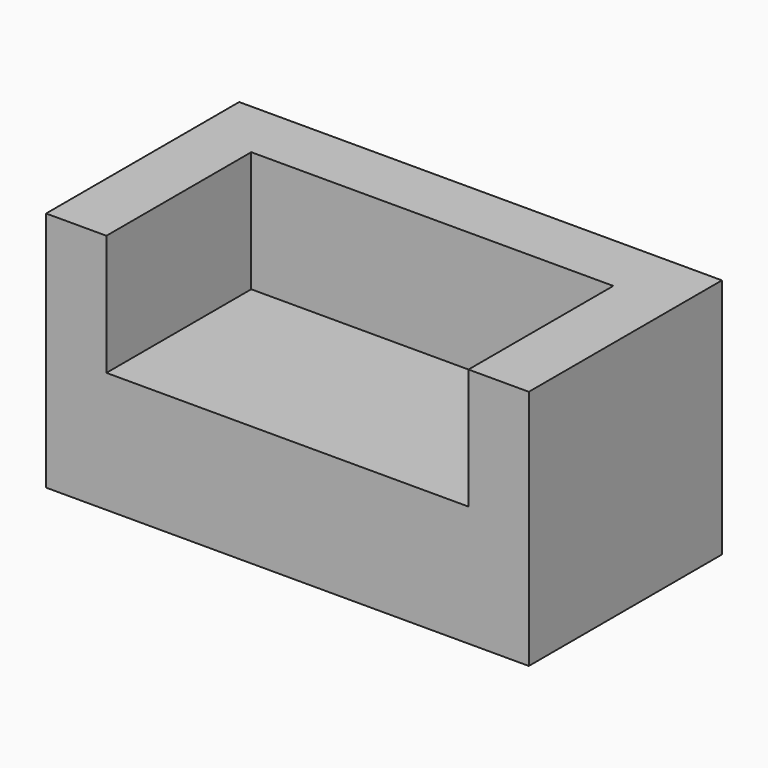
from build123d import *

# Parameters (mm, degrees)
F0_W     = 177.8
F0_H     = 101.6
F1_DEPTH = 101.6
F2_W     = 152.4
F2_H     = 50.8
F3_DEPTH = 76.2
F4_W     = 25.4
F4_H     = 101.6
F5_DEPTH = 101.6


with BuildPart() as f1:
    # F0 (on Front) → F1 (new body)
    with BuildSketch(Plane.XZ):
        with Locations((-0.464447, -7.667177)):
            Rectangle(F0_W, F0_H)
        with Locations((-0.464447, -7.667177)):
            Rectangle(F0_W, F0_H)
    extrude(amount=F1_DEPTH)

    # F2 (on face) → F3 (cut)
    with BuildSketch(Plane.XZ.offset(101.6)):
        with Locations((-13.164447, 17.732823)):
            Rectangle(F2_W, F2_H)
    extrude(amount=-F3_DEPTH, mode=Mode.SUBTRACT)

    # F4 (on face) → F5 (join)
    with BuildSketch(Plane.XZ.offset(101.6)):
        with Locations((-102.064447, -7.667177)):
            Rectangle(F4_W, F4_H)
    extrude(amount=-F5_DEPTH)


solid = f1.part
